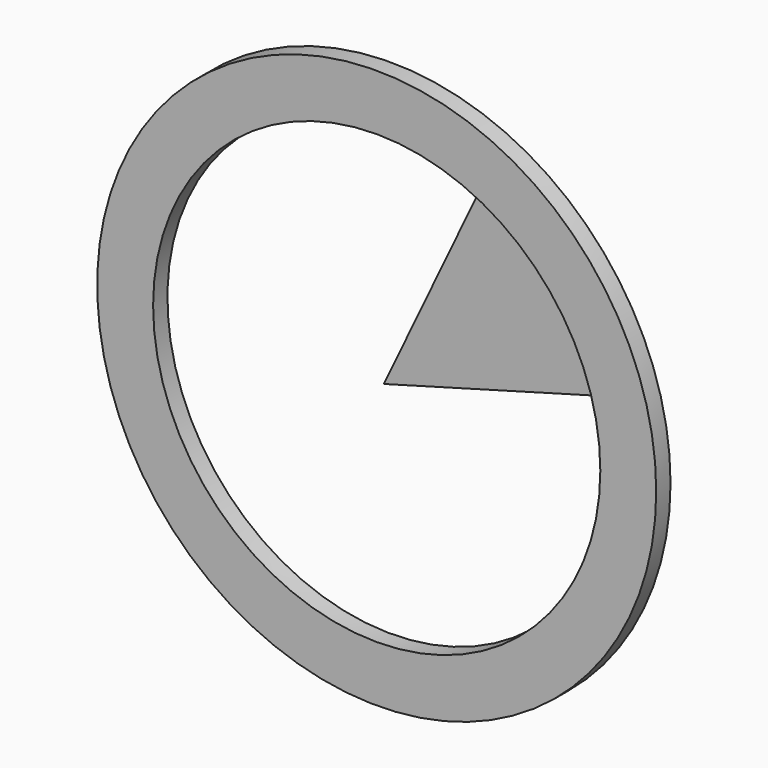
from build123d import *

# Parameters (mm, degrees)
F0_R     = 62.5
F0_R_2   = 50
F1_DEPTH = 4
F3_DEPTH = 2


with BuildPart() as f1:
    # F0 (on Front) → F1 (new body)
    with BuildSketch(Plane.XZ):
        Circle(F0_R)
        Circle(F0_R_2, mode=Mode.SUBTRACT)
    extrude(amount=F1_DEPTH)

    # F2 (on Front) → F3 (join)
    with BuildSketch(Plane.XZ):
        Polygon((0, 0), (54.283127, 15.019991), (24.187325, 50.864834), align=None)
    extrude(amount=F3_DEPTH)


solid = f1.part
